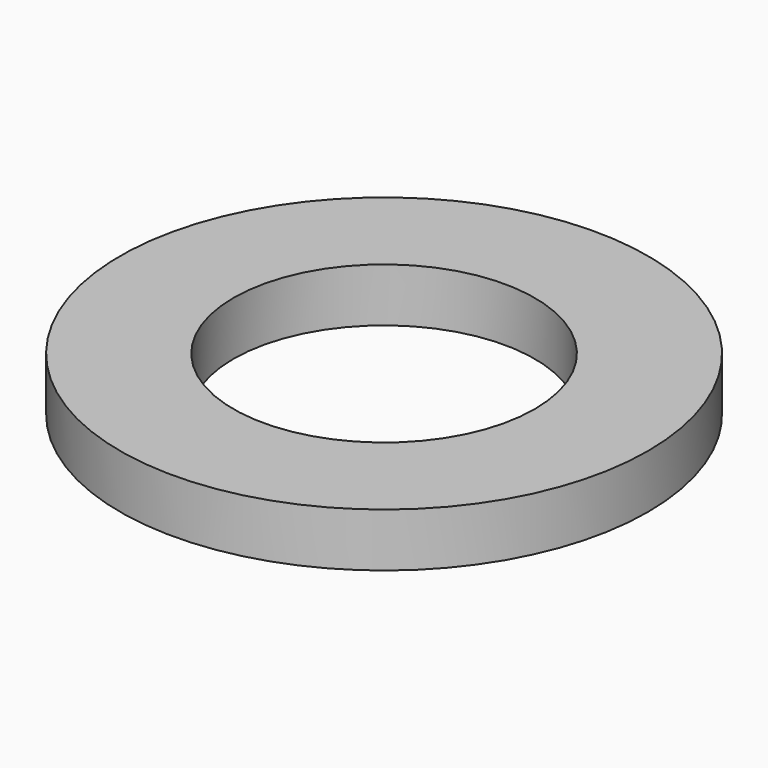
from build123d import *

# Parameters (mm, degrees)
SKETCH_R   = 8.85
SKETCH_R_2 = 5.05
PAD_DEPTH  = 1.8


with BuildPart() as part:
    # Sketch → Pad (new body)
    with BuildSketch(Plane.XY):
        Circle(SKETCH_R)
        Circle(SKETCH_R_2, mode=Mode.SUBTRACT)
    extrude(amount=PAD_DEPTH)


solid = part.part
